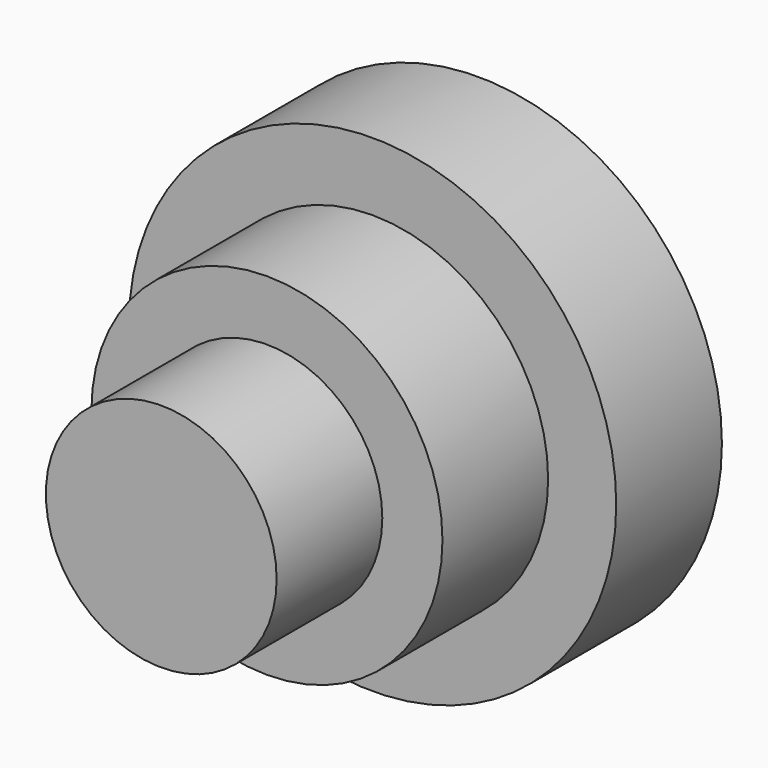
from build123d import *

# Parameters (mm, degrees)
F0_R     = 23.426131
F1_DEPTH = 12.7
F2_R     = 16.876877
F3_DEPTH = 12.7
F4_R     = 11.09388
F5_DEPTH = 12.7


with BuildPart() as f1:
    # F0 (on Front) → F1 (new body)
    with BuildSketch(Plane.XZ):
        with Locations((0, 6.860897)):
            Circle(F0_R)
    extrude(amount=F1_DEPTH)

    # F2 (on face) → F3 (join)
    with BuildSketch(Plane.XZ.offset(12.7)):
        with Locations((0, 6.860897)):
            Circle(F2_R)
    extrude(amount=F3_DEPTH)

    # F4 (on face) → F5 (join)
    with BuildSketch(Plane.XZ.offset(25.4)):
        with Locations((0, 6.860897)):
            Circle(F4_R)
    extrude(amount=F5_DEPTH)


solid = f1.part
